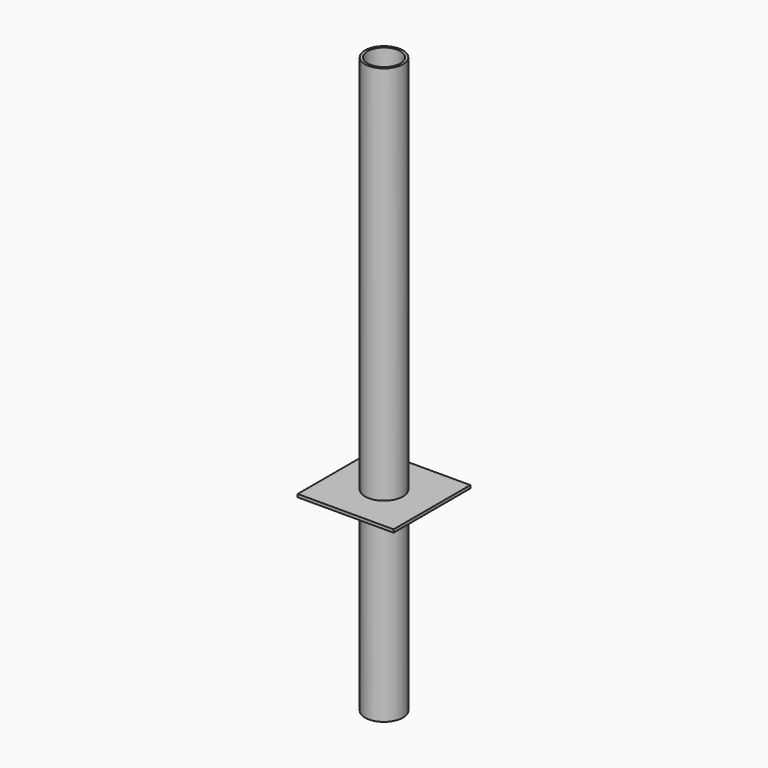
from build123d import *

# Parameters (mm, degrees)
F0_R     = 30.1625
F0_R_2   = 26.2509
F1_DEPTH = 914.4
F3_W     = 152.4
F3_H     = 152.4
F4_DEPTH = 4.7625


with BuildPart() as f1:
    # F0 (on Top) → F1 (new body)
    with BuildSketch(Plane.XY):
        Circle(F0_R)
        Circle(F0_R_2, mode=Mode.SUBTRACT)
    extrude(amount=F1_DEPTH)

    # F3 (on offset) → F4 (join)
    with BuildSketch(Plane.XY.offset(304.8)):
        Rectangle(F3_W, F3_H)
    extrude(amount=F4_DEPTH)


solid = f1.part
